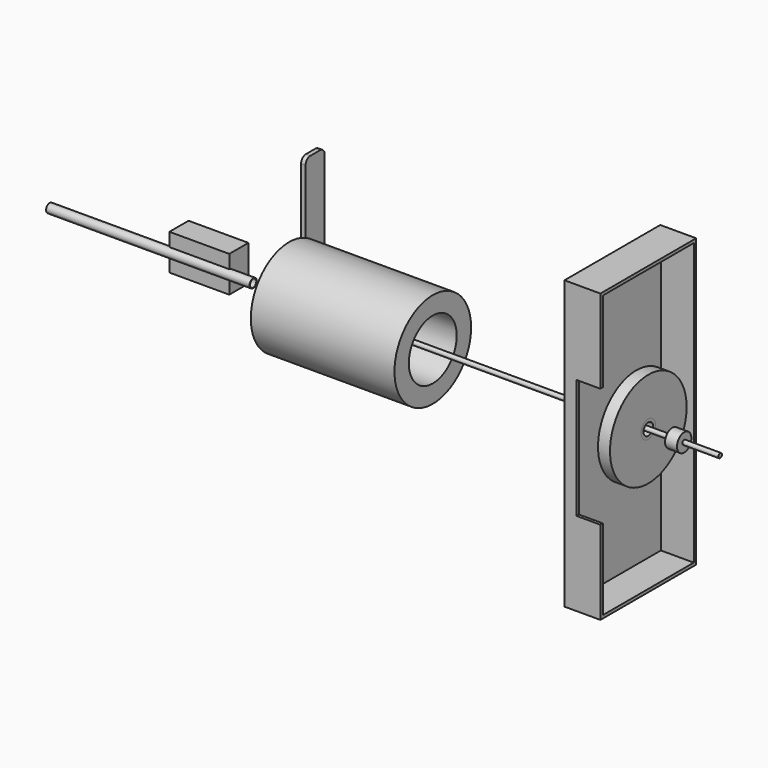
from build123d import *

# Parameters (mm, degrees)
F0_R      = 4.7625
F1_DEPTH  = 914.4
F3_R      = 19.05
F4_DEPTH  = 25.4
F5_R      = 101.6
F5_R_2    = 63.5
F6_DEPTH  = 304.8
F8_W      = 254
F8_H      = 609.6
F8_R      = 12.7
F9_DEPTH  = 76.2
F12_DEPTH = 127
F14_W     = 50.8
F14_H     = 203.2
F14_R     = 6.35
F15_DEPTH = 9.525
F16_R     = 12.7
F17_T     = -6.35
F18_R     = 101.6
F18_R_2   = 19.05
F19_DEPTH = 25.4
F20_R     = 12.7
F21_DEPTH = 25.4
F22_R     = 12.7
F22_R_2   = 8.89
F23_DEPTH = 19.05
F25_R     = 9.525
F25_R_2   = 8.255
F26_DEPTH = 431.8
F27_W     = 50.8
F27_H     = 254
F28_DEPTH = 6.35


with BuildPart() as f1:
    # F0 (on Right) → F1 (new body)
    with BuildSketch(Plane.YZ):
        Circle(F0_R)
    extrude(amount=F1_DEPTH)

    # F20 (on face) → F21 (join)
    with BuildSketch(Plane(origin=(0, 0, 0), x_dir=(0, -1, 0), z_dir=(-1, 0, 0))):
        Circle(F20_R)
    extrude(amount=F21_DEPTH)

    # F22 (on face) → F23 (cut)
    with BuildSketch(Plane(origin=(-25.4, 0, 0), x_dir=(0, -1, 0), z_dir=(-1, 0, 0))):
        Circle(F22_R)
        Circle(F22_R_2, mode=Mode.SUBTRACT)
    extrude(amount=-F23_DEPTH, mode=Mode.SUBTRACT)


with BuildPart() as f4:
    # F3 (on offset) → F4 (new body)
    with BuildSketch(Plane.YZ.offset(838.2)):
        Circle(F3_R)
    extrude(amount=-F4_DEPTH)


with BuildPart() as f6:
    # F5 (on Right) → F6 (new body)
    with BuildSketch(Plane.YZ):
        Circle(F5_R)
        Circle(F5_R_2, mode=Mode.SUBTRACT)
    extrude(amount=F6_DEPTH)


with BuildPart() as f9:
    # F8 (on offset) → F9 (new body)
    with BuildSketch(Plane.YZ.offset(685.8)):
        Rectangle(F8_W, F8_H)
        Circle(F8_R, mode=Mode.SUBTRACT)
    extrude(amount=F9_DEPTH)

    # F17
    f17_openings = [f9.faces().sort_by_distance(p)[0] for p in [
        (762, 0, -298.196),
    ]]
    offset(amount=F17_T, openings=f17_openings)

    # F27 (on face) → F28 (cut)
    with BuildSketch(Plane.XZ.offset(127)):
        with Locations((736.6, 0)):
            Rectangle(F27_W, F27_H)
    extrude(amount=-F28_DEPTH, mode=Mode.SUBTRACT)


with BuildPart() as f12:
    # F11 (on offset) → F12 (new body)
    with BuildSketch(Plane.YZ.offset(-254)):
        with BuildLine():
            ThreePointArc((0, 9.525), (6.7351920908, 6.7351920908), (9.525, 0))
            ThreePointArc((9.525, 0), (6.7351920908, -6.7351920908), (0, -9.525))
            Line((0, -9.525), (0, -38.1))
            Line((0, -38.1), (50.8, -38.1))
            Line((50.8, -38.1), (50.8, 38.1))
            Line((50.8, 38.1), (0, 38.1))
            Line((0, 38.1), (0, 9.525))
        make_face()
    extrude(amount=F12_DEPTH)

    # F25 (on offset) → F26 (join, through all)
    with BuildSketch(Plane.YZ.offset(-508)):
        Circle(F25_R)
        Circle(F25_R_2, mode=Mode.SUBTRACT)
    extrude(amount=F26_DEPTH)


with BuildPart() as f15:
    # F14 (on offset) → F15 (new body)
    with BuildSketch(Plane.YZ.offset(-76.2)):
        with Locations((152.4, 82.55)):
            Rectangle(F14_W, F14_H)
        with Locations((152.4, 0)):
            Circle(F14_R, mode=Mode.SUBTRACT)
    extrude(amount=F15_DEPTH)

    # F16
    f16_edges = [f15.edges().sort_by_distance(p)[0] for p in [
        (-71.4375, 177.8, 184.15),
        (-71.4375, 127, 184.15),
    ]]
    fillet(f16_edges, radius=F16_R)


with BuildPart() as f19:
    # F18 (on face) → F19 (new body)
    with BuildSketch(Plane.YZ.offset(762)):
        Circle(F18_R)
        Circle(F18_R_2, mode=Mode.SUBTRACT)
    extrude(amount=-F19_DEPTH)


solid = Compound([f1.part, f4.part, f6.part, f9.part, f12.part, f15.part, f19.part])
